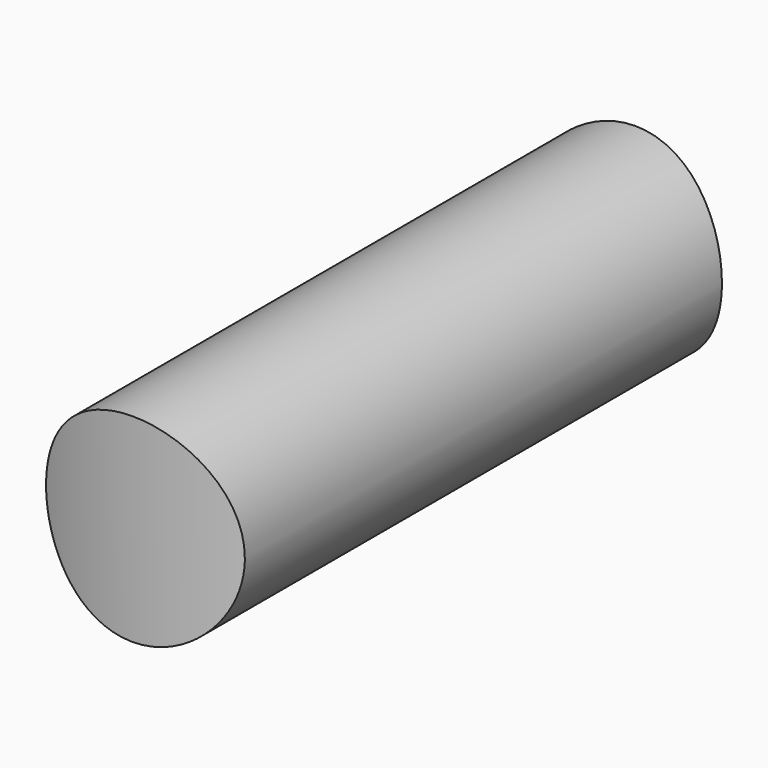
from build123d import *

# Parameters (mm, degrees)
F0_R     = 4
F1_DEPTH = 46.4
F2_R     = 49.7478962468
F2_R_2   = 12.65
F3_DEPTH = 25.6


with BuildPart() as f1:
    # F0 (on Front) → F1 (new body, symmetric)
    with BuildSketch(Plane.XZ):
        Circle(F0_R)
    extrude(amount=F1_DEPTH, both=True)

    # F2 (on Top) → F3 (cut, symmetric)
    with BuildSketch(Plane.XY):
        Circle(F2_R)
        Circle(F2_R_2, mode=Mode.SUBTRACT)
    extrude(amount=F3_DEPTH, both=True, mode=Mode.SUBTRACT)


solid = f1.part
